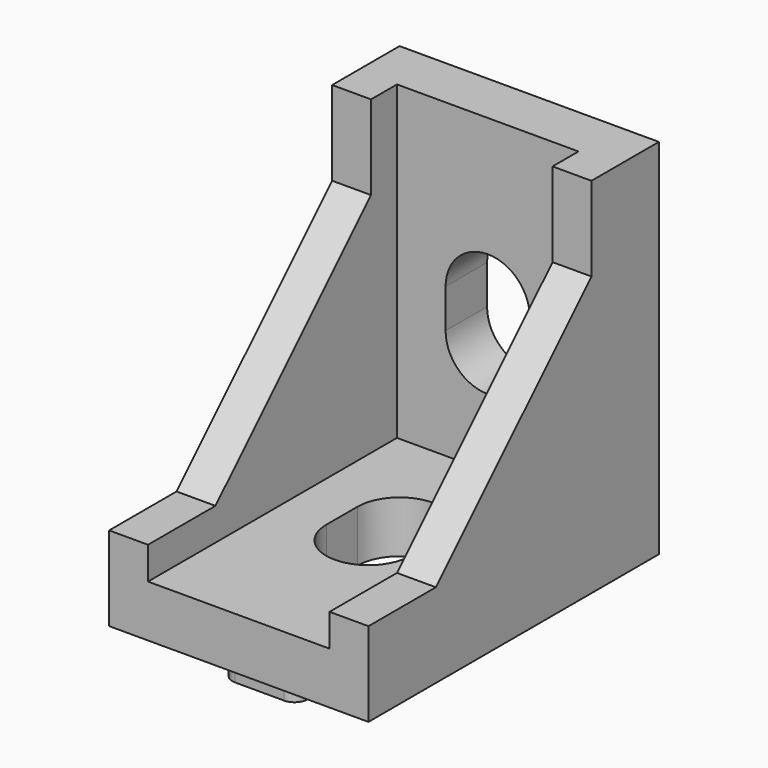
from build123d import *

# Parameters (mm, degrees)
SKETCH_W              = 20
SKETCH_H              = 28
PAD_DEPTH             = 28
SKETCH001_W           = 14
SKETCH001_H           = 24
POCKET_DEPTH          = 24
POCKET001_DEPTH       = 20.001
POCKET002_DEPTH       = 92.725292
POLARPATTERN_COUNT    = 2
POLARPATTERN_ANGLE    = 90
PAD001_DEPTH          = 2
POLARPATTERN001_COUNT = 2
POLARPATTERN001_ANGLE = 90


with BuildPart() as part:
    # Sketch → Pad (new body)
    with BuildSketch(Plane.XZ):
        with Locations((0, 14)):
            Rectangle(SKETCH_W, SKETCH_H)
    extrude(amount=PAD_DEPTH)

    # Sketch001 (on Face6 of Pad) → Pocket (cut)
    with BuildSketch(Plane.XZ.offset(28)):
        with Locations((0, 16)):
            Rectangle(SKETCH001_W, SKETCH001_H)
    extrude(amount=-POCKET_DEPTH, mode=Mode.SUBTRACT)

    # Sketch002 (on Face3 of Pocket) → Pocket001 (cut, through all)
    with BuildSketch(Plane(origin=(10, 0, 0), x_dir=(0, 0, 1), z_dir=(1, 0, 0))):
        Polygon((6.5, 28), (6.5, 21.5), (21.5, 6.5), (28, 6.5), (28, 28), align=None)
    extrude(amount=-POCKET001_DEPTH, mode=Mode.SUBTRACT)

    # Sketch003 (on Face16 of Pocket001) → Pocket002 (cut, through all)
    with BuildSketch(Plane.XZ.offset(4)):
        with BuildLine():
            ThreePointArc((3.25, 15.5), (0, 18.75), (-3.25, 15.5))
            Line((-3.25, 15.5), (-3.25, 12.5))
            ThreePointArc((-3.25, 12.5), (0, 9.25), (3.25, 12.5))
            Line((3.25, 15.5), (3.25, 12.5))
        make_face()
    pocket002 = extrude(amount=-POCKET002_DEPTH, mode=Mode.SUBTRACT)

    # PolarPattern: Pocket002 ×2 about axis
    polarpattern_axis = Axis((0, 0, 0), (1, 0, 0))
    for i in range(1, POLARPATTERN_COUNT):
        add(pocket002.rotate(polarpattern_axis, i * POLARPATTERN_ANGLE / (POLARPATTERN_COUNT - 1)), mode=Mode.SUBTRACT)

    # Sketch004 (on Face3 of PolarPattern) → Pad001 (join, symmetric)
    with BuildSketch(Plane(origin=(0, 0, 0), x_dir=(1, 0, 0), z_dir=(0, 1, 0))):
        with BuildLine():
            ThreePointArc((-1.9, -2), (-2.9, -3), (-1.9, -4))
            Line((-1.9, -4), (1.9, -4))
            ThreePointArc((1.9, -4), (2.9, -3), (1.9, -2))
            Line((-1.9, -2), (1.9, -2))
        make_face()
        with BuildLine():
            ThreePointArc((-1.9, -24), (-2.9, -25), (-1.9, -26))
            Line((-1.9, -26), (1.9, -26))
            ThreePointArc((1.9, -26), (2.9, -25), (1.9, -24))
            Line((-1.9, -24), (1.9, -24))
        make_face()
    pad001 = extrude(amount=PAD001_DEPTH, both=True)

    # PolarPattern001: Pad001 ×2 about axis
    polarpattern001_axis = Axis((0, 0, 0), (1, 0, 0))
    for i in range(1, POLARPATTERN001_COUNT):
        add(pad001.rotate(polarpattern001_axis, i * POLARPATTERN001_ANGLE / (POLARPATTERN001_COUNT - 1)))


solid = part.part
